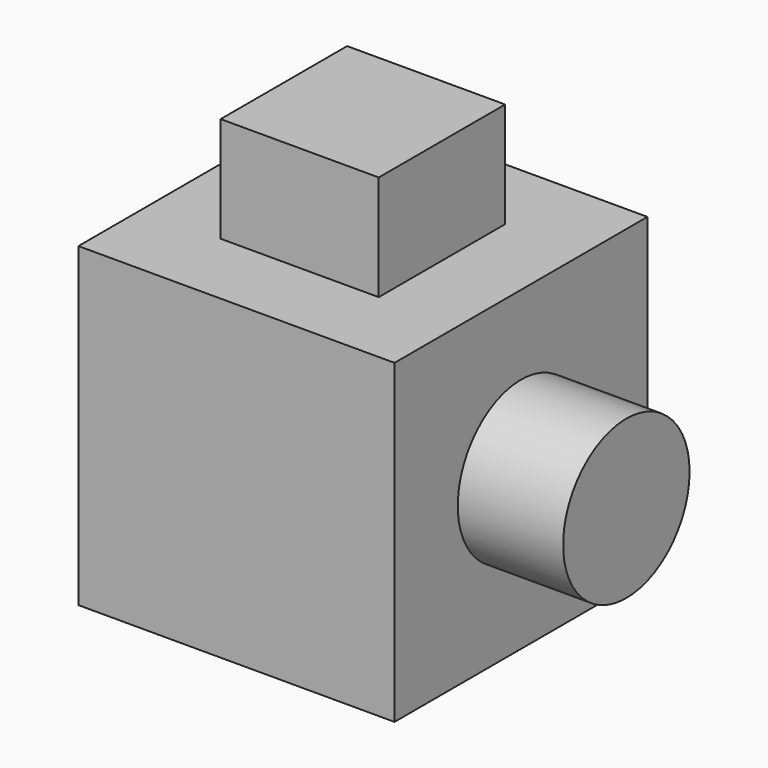
from build123d import *

# Parameters (mm, degrees)
F0_W     = 76.2
F0_H     = 76.2
F1_DEPTH = 76.2
F2_W     = 38.1
F2_H     = 38.1
F5_DEPTH = 25.4
F3_R     = 19.05
F6_DEPTH = 25.4
F4_R     = 19.05
F7_DEPTH = 25.4


with BuildPart() as f1:
    # F0 (on Top) → F1 (new body)
    with BuildSketch(Plane.XY):
        with Locations((-29.714826, -11.961539)):
            Rectangle(F0_W, F0_H)
    extrude(amount=F1_DEPTH)

    # F2 (on face) → F5 (join)
    with BuildSketch(Plane.XY.offset(76.2)):
        with Locations((-29.714826, -11.961539)):
            Rectangle(F2_W, F2_H)
    extrude(amount=F5_DEPTH)

    # F3 (on face) → F6 (join)
    with BuildSketch(Plane.YZ.offset(8.385174)):
        with Locations((-11.961539, 38.1)):
            Circle(F3_R)
    extrude(amount=F6_DEPTH)

    # F4 (on face) → F7 (cut)
    with BuildSketch(Plane(origin=(-67.814826, 0, 0), x_dir=(0, -1, 0), z_dir=(-1, 0, 0))):
        with Locations((11.961539, 38.1)):
            Circle(F4_R)
    extrude(amount=-F7_DEPTH, mode=Mode.SUBTRACT)


solid = f1.part
